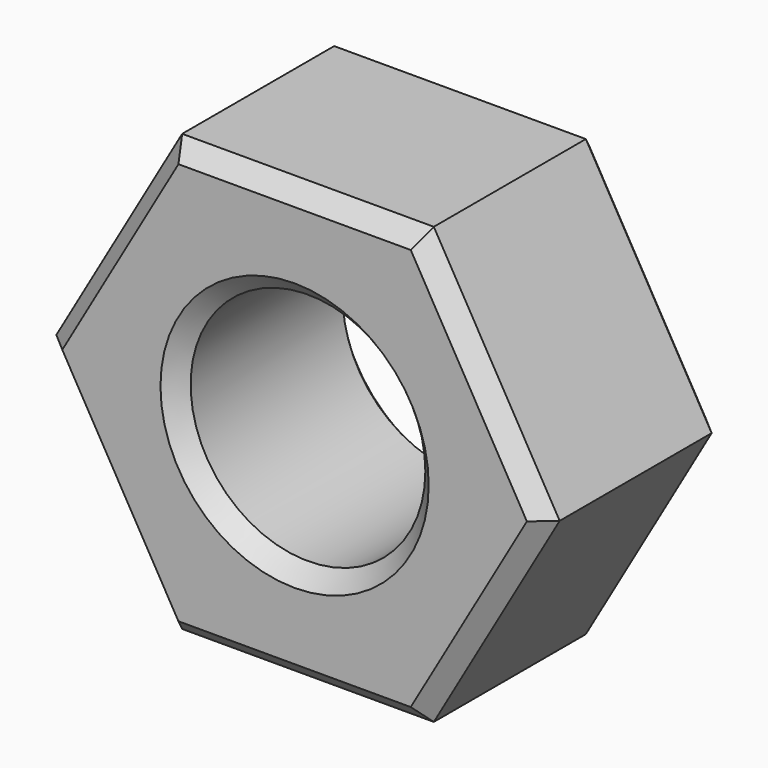
from build123d import *

# Parameters (mm, degrees)
F1_DEPTH = 4
F3_D     = 4.2
F4_SIZE  = 0.3


with BuildPart() as f1:
    # F0 (on Front) → F1 (new body)
    with BuildSketch(Plane.XZ):
        Polygon((2.2516660498, 3.9), (-2.2516660498, 3.9), (-4.5033320997, 0), (-2.2516660498, -3.9), (2.2516660498, -3.9), (4.5033320997, 0), align=None)
    extrude(amount=F1_DEPTH)

    # F3 (through all)
    with Locations(Plane(origin=(0, 0, 0), x_dir=(-1, 0, 0), z_dir=(0, 1, 0))):
        with Locations((0, 0)):
            Hole(F3_D / 2)

    # F4
    f4_edges = [f1.edges().sort_by_distance(p)[0] for p in [
        (0, 0, -3.9),
        (-3.377499, 0, -1.95),
        (0, 0, 3.9),
        (-3.377499, 0, 1.95),
        (3.377499, 0, 1.95),
        (3.377499, 0, -1.95),
        (2.1, 0, 0),
        (3.377499, -4, 1.95),
        (3.377499, -4, -1.95),
        (0, -4, 3.9),
        (0, -4, -3.9),
        (-3.377499, -4, 1.95),
        (-3.377499, -4, -1.95),
        (2.1, -4, 0),
    ]]
    chamfer(f4_edges, length=F4_SIZE)


solid = f1.part
